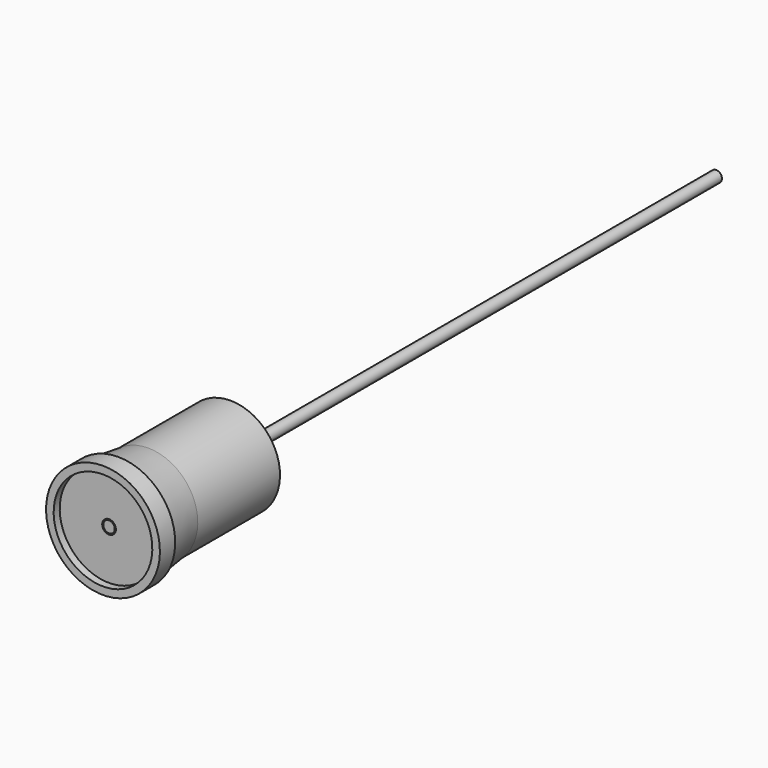
from build123d import *

# Parameters (mm, degrees)
F1_W     = 2
F1_H     = 2
F3_R     = 1.5
F4_DEPTH = 200


with BuildPart() as f2:
    # F1 (on Right) → F2 (revolve)
    with BuildSketch(Plane.YZ):
        with Locations((-1, 14)):
            Rectangle(F1_W, F1_H)
        Polygon((0, 13), (0, 1.8), (6, 1.65), (8.188209, 1.8), (40, 1.8), (40, 13.050199), (12.920836, 13.050199), (3.041599, 14.419159), (3.041599, 15), (0, 15), align=None)
    revolve(axis=Axis((0, 23, 0), (0, 1, 0)))


with BuildPart() as f4:
    # F3 (on Front) → F4 (new body)
    with BuildSketch(Plane.XZ):
        Circle(F3_R)
    extrude(amount=-F4_DEPTH)


solid = Compound([f2.part, f4.part])
